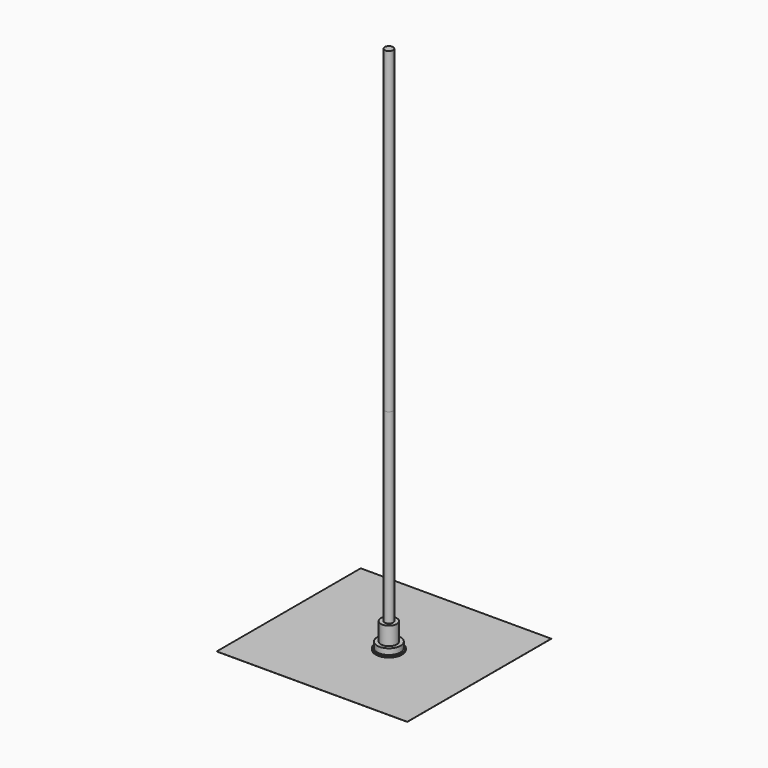
from build123d import *

# Parameters (mm, degrees)
F0_R      = 11
F0_R_2    = 4
F1_DEPTH  = 7
F0_R_3    = 12.5
F2_DEPTH  = 1.5
F3_R      = 6.5
F3_R_2    = 2
F4_DEPTH  = 5
F3_R_3    = 7.5
F5_DEPTH  = 1
F6_R      = 5
F6_R_2    = 4
F7_DEPTH  = 12
F8_R      = 4
F9_DEPTH  = 500
F10_DEPTH = 200
F12_DEPTH = 4
F13_R     = 2.5
F14_DEPTH = 25
F15_R     = 2.75
F16_DEPTH = 3
F17_R     = 1.5
F18_DEPTH = 20
F19_R     = 7.5
F19_R_2   = 4
F20_DEPTH = 24
F21_W     = 180
F21_H     = 170
F22_DEPTH = 0.1


with BuildPart() as f1:
    # F0 (on Top) → F1 (new body)
    with BuildSketch(Plane.XY):
        Circle(F0_R)
        Circle(F0_R_2, mode=Mode.SUBTRACT)
    extrude(amount=F1_DEPTH)

    # F0 (on Top) → F2 (join)
    with BuildSketch(Plane.XY):
        Circle(F0_R_3)
        Circle(F0_R, mode=Mode.SUBTRACT)
    extrude(amount=F2_DEPTH)


with BuildPart() as f4:
    # F3 (on Top) → F4 (new body)
    with BuildSketch(Plane.XY):
        Circle(F3_R)
        Circle(F3_R_2, mode=Mode.SUBTRACT)
    extrude(amount=F4_DEPTH)

    # F3 (on Top) → F5 (join)
    with BuildSketch(Plane.XY):
        Circle(F3_R_3)
        Circle(F3_R, mode=Mode.SUBTRACT)
    extrude(amount=F5_DEPTH)


with BuildPart() as f7:
    # F6 (on Top) → F7 (new body)
    with BuildSketch(Plane.XY):
        Circle(F6_R)
        Circle(F6_R_2, mode=Mode.SUBTRACT)
        Circle(F6_R)
        Circle(F6_R_2, mode=Mode.SUBTRACT)
    extrude(amount=F7_DEPTH)


with BuildPart() as f9:
    # F8 (on Top) → F9 (new body)
    with BuildSketch(Plane.XY):
        Circle(F8_R)
    extrude(amount=F9_DEPTH)


with BuildPart() as f10:
    # F8 (on Top) → F10 (new body)
    with BuildSketch(Plane.XY):
        Circle(F8_R)
    extrude(amount=F10_DEPTH)


with BuildPart() as f12:
    # F11 (on Top) → F12 (new body)
    with BuildSketch(Plane.XY):
        Polygon((-2.25, -3.897114317), (2.25, -3.897114317), (4.5, 0), (2.25, 3.897114317), (-2.25, 3.897114317), (-4.5, 0), align=None)
        Polygon((-2.25, -3.897114317), (2.25, -3.897114317), (4.5, 0), (2.25, 3.897114317), (-2.25, 3.897114317), (-4.5, 0), align=None)
    extrude(amount=F12_DEPTH)

    # F13 (on face) → F14 (join)
    with BuildSketch(Plane.XY.offset(4)):
        Circle(F13_R)
        Circle(F13_R)
    extrude(amount=F14_DEPTH)


with BuildPart() as f16:
    # F15 (on Top) → F16 (new body)
    with BuildSketch(Plane.XY):
        Circle(F15_R)
    extrude(amount=F16_DEPTH)

    # F17 (on face) → F18 (join)
    with BuildSketch(Plane.XY.offset(3)):
        Circle(F17_R)
    extrude(amount=F18_DEPTH)


with BuildPart() as f20:
    # F19 (on Top) → F20 (new body)
    with BuildSketch(Plane.XY):
        Circle(F19_R)
        Circle(F19_R_2, mode=Mode.SUBTRACT)
    extrude(amount=F20_DEPTH)


with BuildPart() as f22:
    # F21 (on Top) → F22 (new body)
    with BuildSketch(Plane.XY):
        with Locations((-7.5304363951, 3.6545433104)):
            Rectangle(F21_W, F21_H)
    extrude(amount=F22_DEPTH)


solid = Compound([f1.part, f4.part, f7.part, f9.part, f10.part, f12.part, f16.part, f20.part, f22.part])
